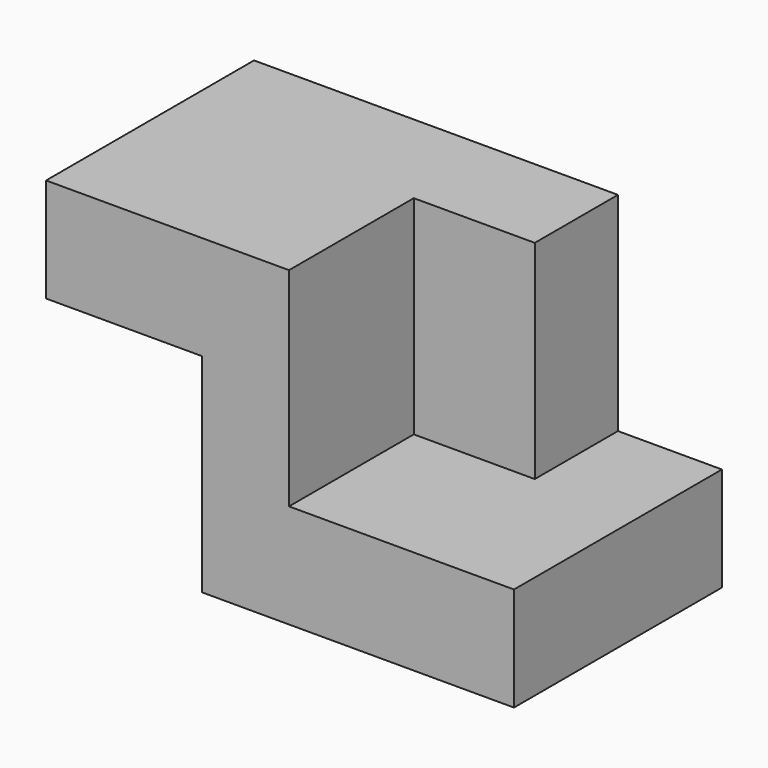
from build123d import *

# Parameters (mm, degrees)
F1_DEPTH = 63.5
F2_W     = 63.5
F2_H     = 50.8
F3_DEPTH = 25.4
F4_W     = 29.5556526983
F4_H     = 38.1
F5_DEPTH = 50.8


with BuildPart() as f1:
    # F0 (on Front) → F1 (new body)
    with BuildSketch(Plane.XZ):
        Polygon((-59.3443473017, 44.5968605516), (-59.3443473017, 19.1968605516), (-21.2443494164, 19.1968605516), (-21.2443494164, -31.6031394484), (54.9556526983, -31.6031394484), (54.9556526983, -6.2031394484), (4.1556526983, -6.2031394484), (4.1556526983, 44.5968605516), align=None)
    extrude(amount=-F1_DEPTH)

    # F2 (on face) → F3 (join)
    with BuildSketch(Plane.YZ.offset(4.1556526983)):
        with Locations((31.75, 19.1968605516)):
            Rectangle(F2_W, F2_H)
    extrude(amount=F3_DEPTH)

    # F4 (on face) → F5 (cut)
    with BuildSketch(Plane.XY.offset(44.5968605516)):
        with Locations((14.7778263491, 19.05)):
            Rectangle(F4_W, F4_H)
    extrude(amount=-F5_DEPTH, mode=Mode.SUBTRACT)


solid = f1.part
